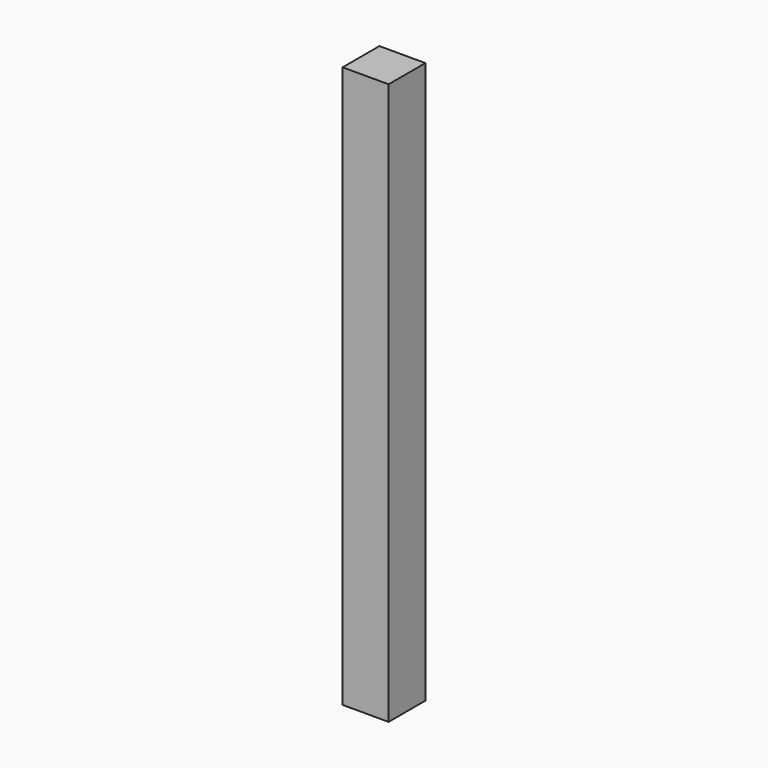
from build123d import *

# Parameters (mm, degrees)
F0_W      = 19
F0_H      = 232
F1_DEPTH  = 19
F1_FACE_W = 19
F1_FACE_H = 232
F2_DEPTH  = 19


with BuildPart() as f1:
    # F0 (on Front) → F1 (new body)
    with BuildSketch(Plane.XZ):
        with Locations((-35.821951081, 116)):
            Rectangle(F0_W, F0_H)
    extrude(amount=F1_DEPTH)

    # F0 (on Front) + F1_face (on face) → F2 (join)
    with BuildSketch(Plane.XZ):
        with Locations((-35.821951081, 116)):
            Rectangle(F0_W, F0_H)
    with BuildSketch(Plane(origin=(-35.821951081, 0, 116), x_dir=(1, 0, 0), z_dir=(0, 1, 0))):
        Rectangle(F1_FACE_W, F1_FACE_H)
    extrude(amount=F2_DEPTH, dir=(0, -1, 0))


solid = f1.part
